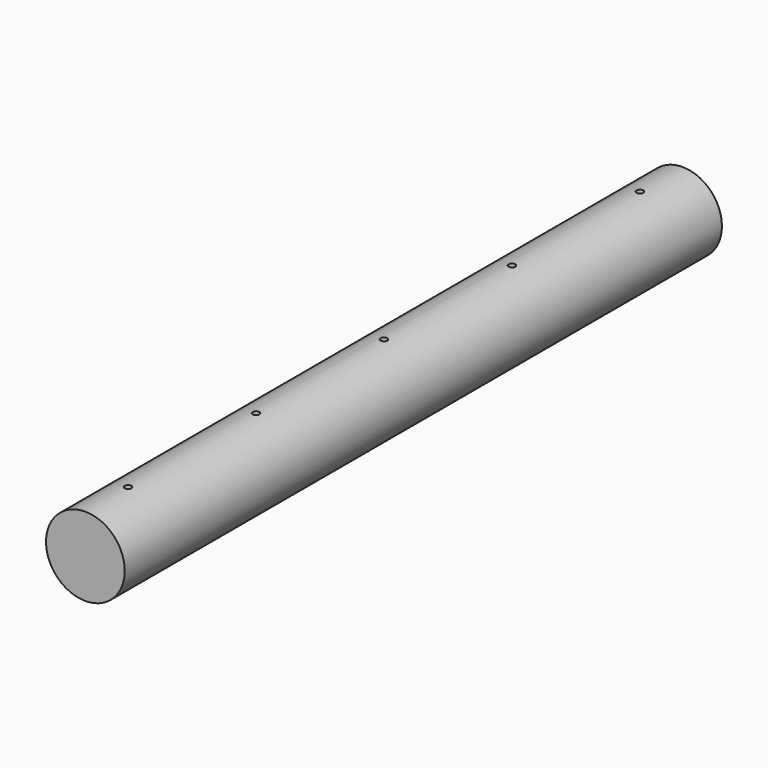
from build123d import *

# Parameters (mm, degrees)
F0_R     = 75
F1_DEPTH = 1422.4
F2_R     = 6.35
F3_DEPTH = 127


with BuildPart() as f1:
    # F0 (on Front) → F1 (new body)
    with BuildSketch(Plane.XZ):
        Circle(F0_R)
    extrude(amount=F1_DEPTH)

    # F2 (on Top) → F3 (cut)
    with BuildSketch(Plane.XY):
        with Locations((0, -711.2)):
            Circle(F2_R)
        with Locations((0, -406.4)):
            Circle(F2_R)
        with Locations((0, -1016)):
            Circle(F2_R)
        with Locations((0, -1320.8)):
            Circle(F2_R)
        with Locations((0, -101.6)):
            Circle(F2_R)
    extrude(amount=F3_DEPTH, mode=Mode.SUBTRACT)


solid = f1.part
